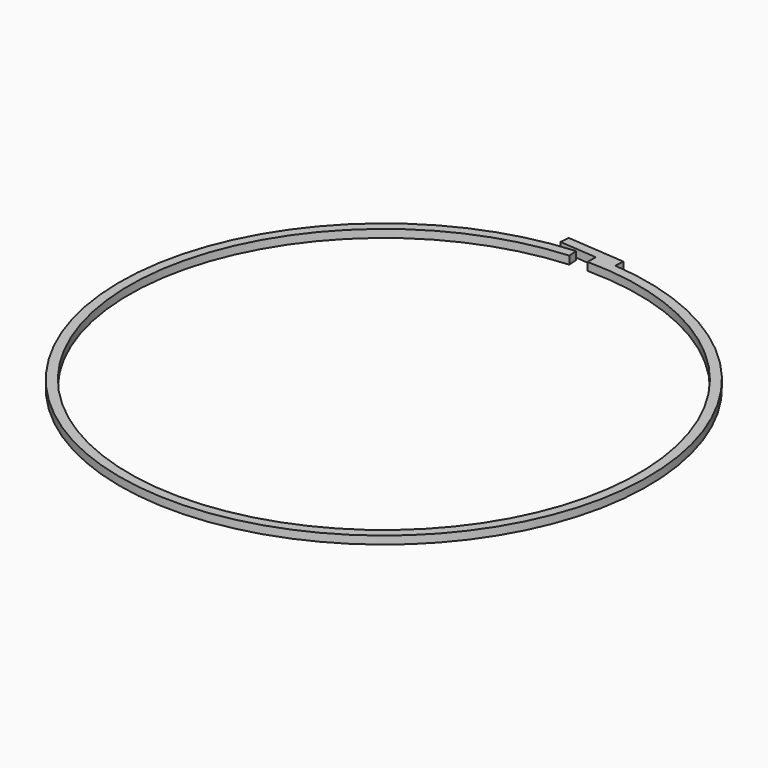
from build123d import *

# Parameters (mm, degrees)
F1_DEPTH = 0.762


with BuildPart() as f1:
    # F0 (on Top) → F1 (new body)
    with BuildSketch(Plane.XY):
        with BuildLine():
            ThreePointArc((0, 24.384), (0.853544, -24.369057), (-1.706041, 24.324245))
            Line((-1.706041, 24.324245), (-1.768951, 25.221201))
            ThreePointArc((-1.768951, 25.221201), (-0.10991, -25.282921), (1.988164, 25.204868))
            Line((1.988164, 25.204868), (2.05887, 26.101239))
            Line((2.05887, 26.101239), (-3.534211, 26.542422))
            Line((-3.534211, 26.542422), (-3.609026, 25.646375))
            Line((-3.609026, 25.646375), (0, 25.361695))
            Line((0, 25.361695), (0, 24.384))
        make_face()
    extrude(amount=F1_DEPTH)


solid = f1.part
